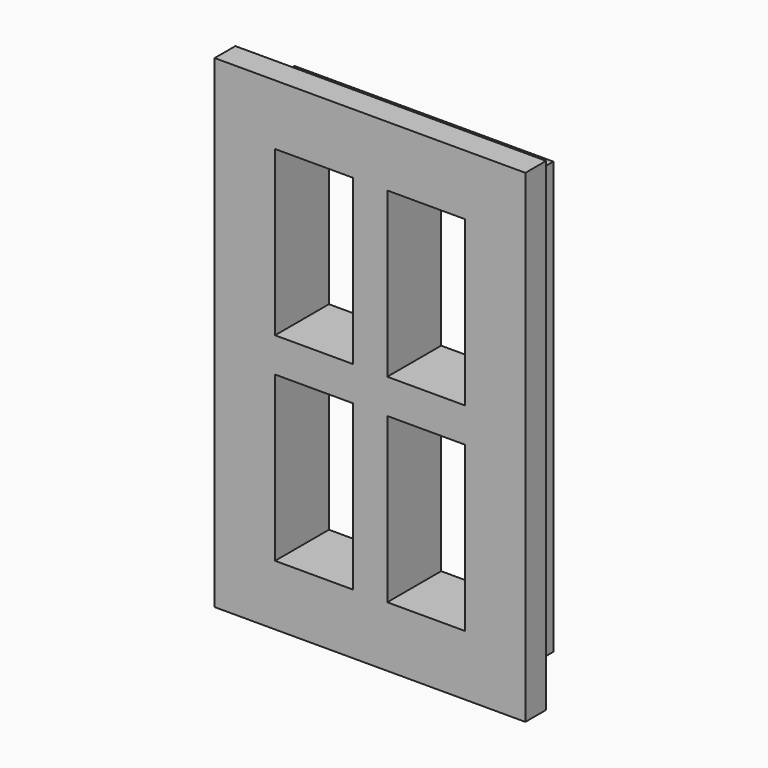
from build123d import *

# Parameters (mm, degrees)
F0_W     = 15
F0_H     = 25
F0_W_2   = 11
F0_H_2   = 21
F1_DEPTH = 2.4
F2_W     = 18
F2_H     = 28
F2_W_2   = 15
F2_H_2   = 25
F2_W_3   = 11
F2_H_3   = 21
F3_DEPTH = 1.5
F4_W     = 4.5
F4_H     = 2
F4_W_2   = 2
F4_H_2   = 9.5
F5_DEPTH = 3.9


with BuildPart() as f1:
    # F0 (on Front) → F1 (new body)
    with BuildSketch(Plane.XZ):
        Rectangle(F0_W, F0_H)
        Rectangle(F0_W_2, F0_H_2, mode=Mode.SUBTRACT)
    extrude(amount=F1_DEPTH)

    # F2 (on face) → F3 (join)
    with BuildSketch(Plane.XZ.offset(2.4)):
        Rectangle(F2_W, F2_H)
        Rectangle(F2_W_2, F2_H_2, mode=Mode.SUBTRACT)
        Rectangle(F2_W_2, F2_H_2)
        Rectangle(F2_W_3, F2_H_3, mode=Mode.SUBTRACT)
    extrude(amount=F3_DEPTH)

    # F4 (on face) → F5 (join)
    with BuildSketch(Plane.XZ.offset(3.9)):
        with Locations((-3.25, 0)):
            Rectangle(F4_W, F4_H)
        with Locations((0, 5.75)):
            Rectangle(F4_W_2, F4_H_2)
        Rectangle(F4_W_2, F4_H)
        with Locations((3.25, 0)):
            Rectangle(F4_W, F4_H)
        with Locations((0, -5.75)):
            Rectangle(F4_W_2, F4_H_2)
    extrude(amount=-F5_DEPTH)


solid = f1.part
